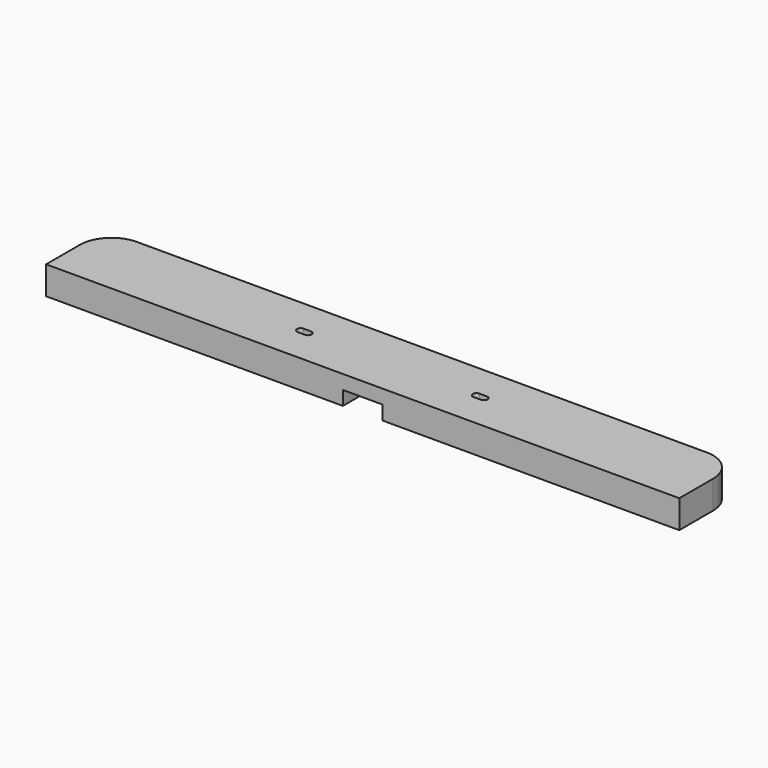
from build123d import *

# Parameters (mm, degrees)
PAD004_DEPTH    = 32
POCKET005_DEPTH = 32
POCKET006_DEPTH = 16


with BuildPart() as part:
    # Sketch009 → Pad004 (new body)
    with BuildSketch(Plane.XY):
        with BuildLine():
            Line((-324, 84), (324, 84))
            ThreePointArc((360, 48), (349.455844, 73.455844), (324, 84))
            Line((360, 48), (360, 0))
            Line((360, 0), (-360, 0))
            Line((-360, 0), (-360, 48))
            ThreePointArc((-324, 84), (-349.455844, 73.455844), (-360, 48))
        make_face()
    extrude(amount=PAD004_DEPTH)

    # Sketch010 → Pocket005 (cut)
    with BuildSketch(Plane.XY.offset(32)):
        with BuildLine():
            ThreePointArc((-104.2, 46.2), (-108.4, 42), (-104.2, 37.8))
            Line((-104.2, 37.8), (-95.8, 37.8))
            ThreePointArc((-95.8, 37.8), (-91.6, 42), (-95.8, 46.2))
            Line((-95.8, 46.2), (-104.2, 46.2))
        make_face()
    pocket005 = extrude(amount=-POCKET005_DEPTH, mode=Mode.SUBTRACT)

    # Mirrored: Pocket005 across Sketch010 V_Axis
    add(pocket005.mirror(Plane(origin=(0, 0, 32), x_dir=(0, 0, 1), z_dir=(1, 0, 0))), mode=Mode.SUBTRACT)

    # Sketch011 → Pocket006 (cut)
    with BuildSketch(Plane(origin=(0, 0, 0), x_dir=(1, 0, 0), z_dir=(0, 0, -1))):
        with BuildLine():
            Line((-22.5, 0), (22.5, 0))
            Line((22.5, 0), (22.5, -57))
            ThreePointArc((16.5, -63), (20.742641, -61.242641), (22.5, -57))
            Line((16.5, -63), (-16.5, -63))
            ThreePointArc((-22.5, -57), (-20.742641, -61.242641), (-16.5, -63))
            Line((-22.5, -57), (-22.5, 0))
        make_face()
    extrude(amount=-POCKET006_DEPTH, mode=Mode.SUBTRACT)


solid = part.part
